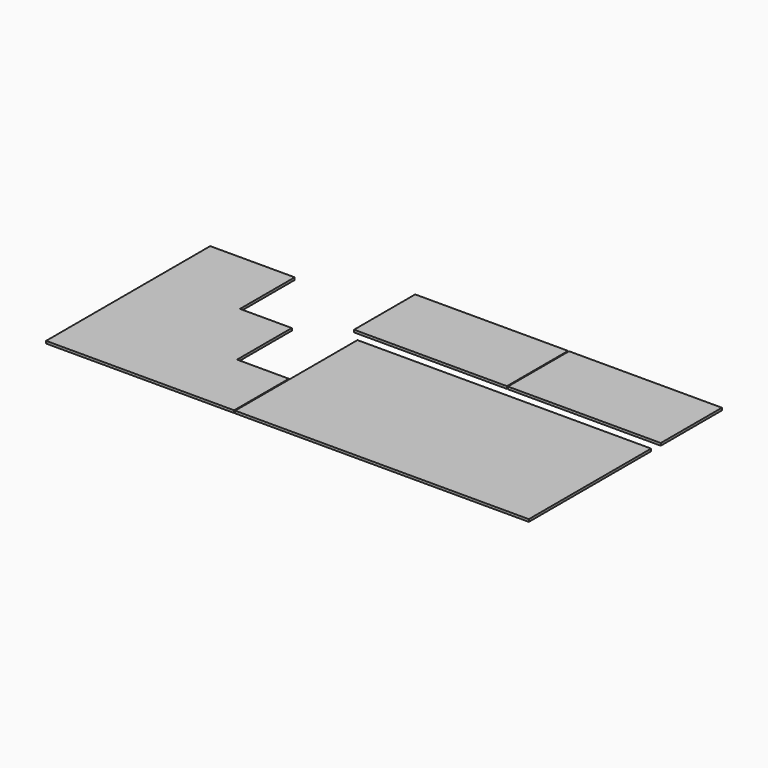
from build123d import *

# Parameters (mm, degrees)
F0_W     = 1460
F0_H     = 760
F0_W_2   = 760
F0_H_2   = 380
F1_DEPTH = 12


with BuildPart() as f1:
    # F0 (on Top) → F1 (new body)
    with BuildSketch(Plane.XY):
        Polygon((0, 1020), (0, 0), (935, 0), (935, 340), (677.5, 340), (677.5, 680), (420, 680), (420, 1020), align=None)
        with Locations((1670, 380)):
            Rectangle(F0_W, F0_H)
        with Locations((1255, 1010)):
            Rectangle(F0_W_2, F0_H_2)
        with Locations((2020, 1010)):
            Rectangle(F0_W_2, F0_H_2)
    extrude(amount=F1_DEPTH)


solid = f1.part
